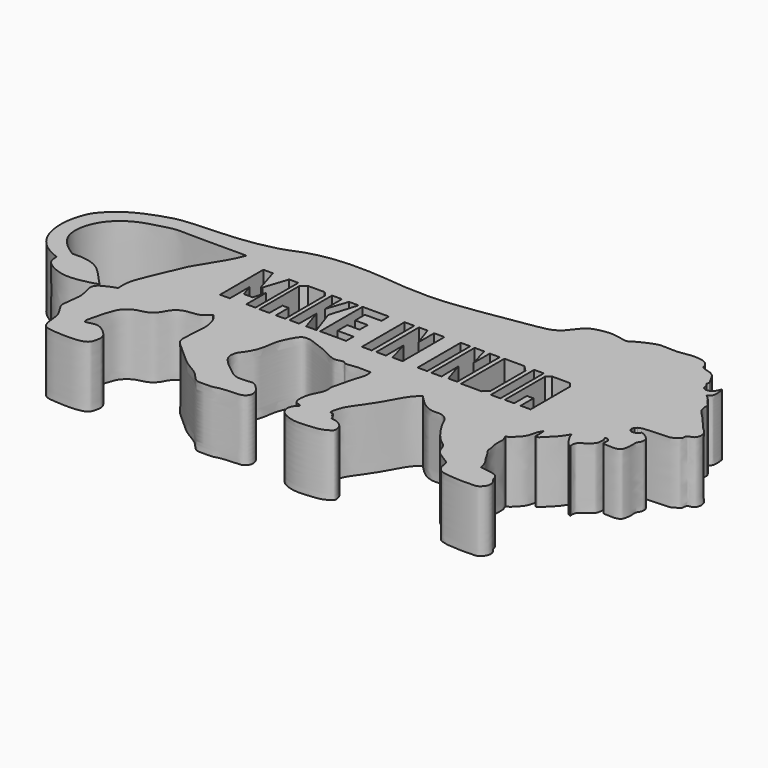
from build123d import *

# Parameters (mm, degrees)
F0_W     = 3.901142627
F0_H     = 21.9128001481
F0_W_2   = 3.9784259861
F0_H_2   = 21.7068511993
F0_W_3   = 3.9086304605
F0_H_3   = 22.0558345318
F1_DEPTH = 25


with BuildPart() as f1:
    # F0 (on Top) → F1 (new body)
    with BuildSketch(Plane.XY):
        with BuildLine():
            add(Edge.make_bspline(
                [(-18.4736680239, 30.7120643556), (-15.5948675816, 30.5604762347), (-9.1864551882, 30.2230304088), (4.1128363499, 31.1215565574), (23.632939243, 34.6049558686), (35.1111808796, 36.1484507051), (37.3155102603, 37.4282133385), (39.3079465554, 38.3340980459), (42.0384899067, 42.2735353081), (44.5267980784, 44.815673395), (46.6581846278, 45.7280435651), (51.6655403085, 46.9618585222), (56.1216359758, 46.3759270699), (59.9434017393, 45.202224889), (62.0695883688, 47.3156091824), (67.2613755102, 49.4382296788), (69.4831274543, 50.2730534783), (72.5410864337, 50.1151370516), (76.2483248841, 49.9200004564), (79.4998114568, 50.3763541503), (82.4187777902, 50.9438670851), (85.2888958304, 50.7735150926), (88.1014045119, 50.1774171062), (89.8262994525, 48.2317125603), (89.7153119698, 46.7224444774), (92.1400352556, 45.7788421357), (93.9768544457, 45.4930497994), (96.0762741335, 44.0393332843), (97.4479888711, 41.0161998282), (98.4806142716, 39.399975342), (97.5096783634, 38.7205557879), (98.8907263641, 37.8126613625), (98.763159314, 36.8785537181), (98.7862466379, 36.0609148144), (100.0111504239, 34.9520027023), (102.2513558334, 35.4083950251), (103.578790964, 36.9810849846), (104.2901819481, 39.2433456793), (104.6840907072, 36.6030298518), (104.6878166623, 34.0289695079), (104.0356998167, 33.023207468), (103.3382891327, 32.5287715955), (102.9767543077, 32.2724580765)],
                knots=[0, 0, 0, 0, 0.0427483381, 0.0951608093, 0.1605408416, 0.2080050187, 0.2290892437, 0.2493853251, 0.2807235087, 0.3075556361, 0.3289864572, 0.3609506803, 0.3921113389, 0.4189434683, 0.4428932232, 0.4765278413, 0.4988115548, 0.5231824348, 0.5509728381, 0.5769466531, 0.601440932, 0.6256485108, 0.6498383322, 0.6717603524, 0.6878935251, 0.7094977491, 0.7294334488, 0.7515792306, 0.7781734411, 0.796494484, 0.8083456448, 0.8244616377, 0.8378776964, 0.8503209404, 0.8673569935, 0.8878816422, 0.9092500341, 0.9262348925, 0.9448864175, 0.9689117963, 0.9838840033, 1, 1, 1, 1], degree=3))
            add(Edge.make_bspline(
                [(-117.8372651339, -22.1596620977), (-118.3892018021, -21.9762419282), (-119.9190424888, -21.467843675), (-125.7202892069, -18.3420555805), (-129.4536255711, -12.5760705844), (-130.6747630822, -7.7104194527), (-131.118282702, -1.8913666643), (-129.7249709406, 3.8422901543), (-128.0845262628, 8.3947996336), (-123.0968938245, 13.519526336), (-117.2438791732, 17.5503552621), (-106.9450969409, 21.4597197012), (-99.9823636341, 22.8474061474), (-79.9179276314, 23.0700663586), (-64.3644768732, 26.4823163548), (-59.5417892059, 29.1287225984), (-50.5429678117, 31.525076033), (-36.937989276, 32.5516830059), (-24.9436649391, 31.3566765691), (-18.4736680239, 30.7120643556)],
                knots=[0, 0, 0, 0, 0.0292788547, 0.0811542079, 0.1347774903, 0.1803325334, 0.2294459335, 0.2788190383, 0.3236022017, 0.3768894426, 0.4327248095, 0.4989220656, 0.5543536267, 0.64644381, 0.7281027153, 0.7748911633, 0.8351554252, 0.9110792855, 1, 1, 1, 1], degree=3))
            add(Edge.make_bspline(
                [(-95.509454608, -28.3433888108), (-96.3705319114, -28.6738207116), (-98.5321031404, -29.5033073178), (-105.8181365103, -30.8318431391), (-111.2763368319, -30.0205897368), (-117.7731926127, -26.6547235422), (-117.8176803145, -23.5336515206), (-117.8372651339, -22.1596620977)],
                knots=[0, 0, 0, 0, 0.1549727516, 0.3890296956, 0.6014233391, 0.824534611, 1, 1, 1, 1], degree=3))
            add(Edge.make_bspline(
                [(-115.2641773224, -17.3869878054), (-113.9308100204, -17.3143145205), (-110.9336995385, -17.1509612842), (-104.2643884338, -18.6498109494), (-99.1113432686, -24.4322758947), (-96.6343781518, -27.1218899205), (-95.509454608, -28.3433888108)],
                knots=[0, 0, 0, 0, 0.2123749431, 0.4773712143, 0.7626460616, 1, 1, 1, 1], degree=3))
            add(Edge.make_bspline(
                [(-71.2725818157, 16.146235168), (-73.8805224268, 16.1567574621), (-79.7033343526, 16.1802508421), (-92.5261512102, 15.9900609057), (-99.9751502548, 16.5608218702), (-106.2422599695, 14.6469975572), (-114.3817964715, 12.5754925374), (-123.3128471024, 5.2802766723), (-125.9333207694, -7.3176787157), (-120.0349581585, -14.3708868517), (-116.7398993674, -16.4540322117), (-115.2641773224, -17.3869878054)],
                knots=[0, 0, 0, 0, 0.1093183229, 0.2440776571, 0.3467643742, 0.4404749242, 0.548512706, 0.6740303276, 0.8027468167, 0.911658368, 1, 1, 1, 1], degree=3))
            add(Edge.make_bspline(
                [(-89.1831144691, -26.6888067126), (-89.2835275373, -25.2454863093), (-89.5076833201, -22.0235091248), (-87.3157397292, -15.8543709019), (-82.6577731783, -5.2743284444), (-80.6388678432, -0.1264043837), (-73.6889492734, 10.1743669909), (-71.9920420762, 14.3681439175), (-71.2725818157, 16.146235168)],
                knots=[0, 0, 0, 0, 0.1270240549, 0.2835604665, 0.486718783, 0.6360897634, 0.8457081483, 1, 1, 1, 1], degree=3))
            add(Edge.make_bspline(
                [(-82.8164070845, -51.5348315239), (-81.9452891289, -51.3079063484), (-80.2660386786, -50.870463634), (-77.8522828746, -50.5712042214), (-74.7625338245, -52.5153313836), (-71.6623036868, -55.7235393263), (-72.2359717931, -58.8964721691), (-73.2456962707, -63.3428908589), (-86.2080432671, -62.867825215), (-91.8126649517, -62.0682295112), (-92.2363067379, -55.427941643), (-92.7542532854, -52.3359294874), (-95.2947717698, -48.6228784357), (-96.4294413334, -46.6767639584), (-95.016915137, -39.6081692223), (-95.2600261579, -36.6429712964), (-96.7762321435, -32.1466514336), (-95.742289548, -29.0989090723), (-91.6803925067, -27.6064062002), (-89.1831144691, -26.6888067126)],
                knots=[0, 0, 0, 0, 0.0464123911, 0.0894689728, 0.1435392854, 0.2021561464, 0.2513278383, 0.3047498268, 0.4042247569, 0.4694606028, 0.5368782373, 0.5899317517, 0.6480609337, 0.6914938926, 0.7657430353, 0.818131859, 0.8780319599, 0.9250133362, 1, 1, 1, 1], degree=3))
            add(Edge.make_bspline(
                [(-54.0924370289, -22.2679730505), (-54.5641103002, -22.7140432871), (-55.5219598837, -23.6198995928), (-57.1098259406, -25.3174569603), (-62.3594248249, -25.4691900024), (-65.1318505949, -26.7073644681), (-67.21598576, -28.8688135267), (-68.3023215618, -31.7191705173), (-71.5435467926, -34.4015717751), (-75.5467108193, -34.6237535047), (-79.5549558425, -37.5146672153), (-80.758417518, -40.5888462117), (-81.7813687195, -43.3721796547), (-82.5894749465, -47.6544377667), (-83.549340859, -50.4964918343), (-83.1260744111, -51.1274574478), (-82.8164070845, -51.5348315239)],
                knots=[0, 0, 0, 0, 0.0558863943, 0.1155999533, 0.2062859179, 0.2772797097, 0.3446861447, 0.4149014075, 0.4945594154, 0.5752279977, 0.6623946086, 0.7343116835, 0.8037698157, 0.8894585473, 0.9564751556, 1, 1, 1, 1], degree=3))
            add(Edge.make_bspline(
                [(9.7058629617, -21.8705777079), (7.6072198532, -21.7533543804), (3.826811667, -21.5421931663), (-0.6203705234, -22.6999469235), (-1.4043499798, -20.981823046), (-5.0907400152, -22.7416603478), (-8.3100014943, -20.3978423509), (-18.0876729988, -16.5039212135), (-20.4790644999, -16.1537566805), (-22.6611320208, -16.402887046), (-24.074399778, -18.4552559966), (-25.3754922334, -20.8245287014), (-26.6345763333, -23.7771084807), (-27.0889936481, -26.219866796), (-27.7699721174, -30.8839707802), (-28.8943528968, -33.3147597286), (-30.2221100195, -35.7975264193), (-31.7307201461, -37.5125676259), (-32.2371387042, -38.9527628026), (-32.7566762426, -42.0309478502), (-29.1193163777, -45.9275420206), (-24.4659880838, -49.5948792361), (-21.6182730219, -51.3863697894), (-17.1729346465, -51.1326627348), (-14.5019476033, -50.5360974531), (-12.2436179557, -52.9587796936), (-10.9301618831, -54.1492317626), (-9.7525593757, -57.6983112664), (-12.0946450016, -59.6947349977), (-13.6519380184, -59.9373645666), (-20.9524318884, -60.1405727967), (-23.1739472061, -61.26523163), (-26.7180326963, -61.0776871534), (-30.0797114577, -61.3645561603), (-32.1889382774, -58.7158301677), (-34.2701752225, -56.4470396929), (-40.0036674162, -53.4713061797), (-43.8127950673, -49.7002054342), (-49.0175085398, -45.2397946851), (-51.371749501, -43.0722374322), (-51.5648326564, -38.5514465738), (-50.4876275079, -31.7250897509), (-51.1615335854, -27.4849900146), (-52.1793328259, -24.0893454702), (-53.4844226546, -22.8468336323), (-54.0924370289, -22.2679730505)],
                knots=[0, 0, 0, 0, 0.0308634602, 0.0555961503, 0.0692137009, 0.0911922921, 0.1163550106, 0.1562736417, 0.175837798, 0.1927230973, 0.2115950789, 0.2323217433, 0.2540531203, 0.2739970658, 0.3005099653, 0.3211209789, 0.3417112881, 0.3600974727, 0.3751622243, 0.3955334313, 0.4236524232, 0.4540255134, 0.4765158337, 0.5019870049, 0.5219827498, 0.5430943448, 0.5602583033, 0.582620513, 0.6022522964, 0.6184849522, 0.6512637802, 0.6715537219, 0.6942078858, 0.7163989226, 0.7378291135, 0.7597428687, 0.7905001121, 0.8202137615, 0.8522481259, 0.8735778571, 0.8989564037, 0.9317445131, 0.9575929358, 0.9802434254, 1, 1, 1, 1], degree=3))
            add(Edge.make_bspline(
                [(16.8600510806, -51.5348315239), (17.256519637, -51.4759425682), (18.1392450906, -51.2195965597), (18.4416358966, -52.8359859943), (19.5821339977, -53.3613971318), (19.5200066489, -54.6940290984), (21.5235011157, -54.5417635237), (23.4556472042, -55.4248385096), (24.9302829803, -56.8130410256), (25.2744823066, -57.5654328107), (26.1658753112, -60.3201144213), (23.9853877903, -61.3595372376), (21.9198477166, -62.6144305983), (16.7284022536, -63.0508150572), (12.3549106814, -63.4218081), (7.8860254464, -62.3744687577), (4.6246164401, -60.1176763525), (4.1326215753, -56.8041440554), (5.5151841874, -54.6855194601), (6.3518828164, -54.2791685873), (6.4263388495, -53.5347639616), (5.0981897969, -53.1717747985), (3.8692640639, -52.6580980535), (3.246864817, -50.6824389123), (3.7228726573, -46.9473613867), (4.8001846608, -44.4496542363), (6.8427498208, -40.8413355006), (6.1109814592, -37.7713579897), (7.0717566506, -35.1770120385), (7.3706629987, -32.5547354686), (9.1725278932, -26.7579099349), (9.9635548815, -24.4198827578), (9.7906310166, -22.7091745514), (9.7058629617, -21.8705777079)],
                knots=[0, 0, 0, 0, 0.0221136394, 0.046534576, 0.0694337637, 0.0900430737, 0.1172348151, 0.1492559042, 0.1783918573, 0.1986212443, 0.2317847799, 0.2616988912, 0.2949913125, 0.3428802425, 0.3883493378, 0.4334221711, 0.4744728341, 0.511546756, 0.5442024139, 0.5636935278, 0.5785543818, 0.6021656795, 0.6262315744, 0.6553524331, 0.6961750199, 0.7322660532, 0.7743998522, 0.8114456634, 0.8453290581, 0.8807697157, 0.9328342013, 0.9668258567, 1, 1, 1, 1], degree=3))
            add(Edge.make_bspline(
                [(32.8086540103, -24.3030339479), (31.9375314702, -25.0331508623), (29.9993856113, -26.6571255514), (26.904917097, -32.0356189985), (24.7091764513, -36.4043823533), (20.2403884148, -42.7559612884), (17.7765293616, -46.2355668818), (16.6431053109, -50.4764632188), (16.8051090196, -51.1455322217), (16.8600510806, -51.5348315239)],
                knots=[0, 0, 0, 0, 0.1304598029, 0.2984470574, 0.4556767809, 0.6443996772, 0.7926103601, 0.9293422073, 1, 1, 1, 1], degree=3))
            add(Edge.make_bspline(
                [(77.9110491276, -51.0376356542), (79.2116973866, -51.1903257383), (81.7237315833, -51.4852269233), (85.4995300302, -52.3111595104), (85.9398941157, -55.4289674935), (87.464241625, -56.6534831609), (87.7819184791, -59.4574670396), (85.5592114912, -61.851068358), (83.5421766219, -62.2641958441), (70.8304844897, -62.2545023774), (68.301671972, -59.8086513108), (67.56993996, -57.7700529112), (67.502704011, -55.2249464746), (65.3448136123, -54.1559608999), (63.4830706959, -52.7601320899), (61.7338238321, -51.8983459164), (60.1300199693, -49.7692845309), (59.5767139931, -46.7612989779), (56.3633315598, -44.9004846392), (52.243370715, -39.9259168604), (49.2952471487, -34.9048145371), (48.4651021989, -32.3270393343), (45.5371631955, -30.0085934633), (42.2440474868, -30.7199930132), (37.8295082775, -29.4556088161), (34.0943938599, -25.6271020133), (33.1529770398, -24.6576213302), (32.8086540103, -24.3030339479)],
                knots=[0, 0, 0, 0, 0.0439324742, 0.0848499023, 0.1209783242, 0.1509997244, 0.18595777, 0.2230571154, 0.2559985253, 0.3334992994, 0.3733829141, 0.4046220896, 0.4381061782, 0.4708877542, 0.5046140963, 0.5351214224, 0.570295901, 0.6073957556, 0.6483789622, 0.7051280439, 0.7582243102, 0.7942254438, 0.8339744281, 0.8732556228, 0.9202455515, 0.9708298251, 1, 1, 1, 1], degree=3))
            add(Edge.make_bspline(
                [(70.6071034074, -29.6164434403), (71.0155114938, -30.443085248), (71.8770425203, -32.1868743376), (71.0893154654, -35.4734683076), (72.4026219994, -38.9486939391), (71.925305016, -40.333056852), (73.7331978051, -42.4214221008), (74.8569054721, -44.9678383965), (76.5529478246, -46.9873272268), (77.4912337434, -49.2729961327), (77.7784313975, -50.4801942252), (77.9110491276, -51.0376356542)],
                knots=[0, 0, 0, 0, 0.115506881, 0.243660116, 0.3749583547, 0.4542265425, 0.5649583271, 0.6839877578, 0.797391713, 0.9064426512, 1, 1, 1, 1], degree=3))
            add(Edge.make_bspline(
                [(77.9110491276, -18.8456755131), (77.4530359988, -19.656977218), (76.5044332348, -21.3372850327), (76.0165545636, -24.6064537003), (74.5084839102, -26.6011430273), (73.2536071688, -27.7507984202), (72.1249827855, -29.1173948345), (71.1057651335, -29.4524933645), (70.6071034074, -29.6164434403)],
                knots=[0, 0, 0, 0, 0.1894197894, 0.3923121946, 0.566867362, 0.7132976415, 0.8597282016, 1, 1, 1, 1], degree=3))
            add(Edge.make_bspline(
                [(78.7835121155, -23.7314607948), (78.5386138993, -23.7981556295), (77.8716163467, -23.9798037126), (78.0940369223, -21.6274727605), (77.9767490613, -19.8444519348), (77.9110491276, -18.8456755131)],
                knots=[0, 0, 0, 0, 0.2033087284, 0.5537256514, 1, 1, 1, 1], degree=3))
            add(Edge.make_bspline(
                [(86.1813426018, -15.3871998191), (85.882248043, -15.887743296), (85.2201549051, -16.995775494), (83.5888828282, -19.2671293298), (81.6548854404, -20.9836865671), (79.6533438556, -23.2403664174), (79.0137654951, -23.6014630781), (78.7835121155, -23.7314607948)],
                knots=[0, 0, 0, 0, 0.1849971674, 0.4095205061, 0.6360303571, 0.8689679865, 1, 1, 1, 1], degree=3))
            add(Edge.make_bspline(
                [(86.1813426018, -15.3871998191), (86.3531665209, -15.9192523578), (86.7470500721, -17.1389122542), (88.3267981688, -19.6054603094), (89.7084249285, -21.5140718667), (90.5442100111, -21.7666841735), (90.8879488707, -21.8705777079)],
                knots=[0, 0, 0, 0, 0.2369872054, 0.5432617444, 0.8121542364, 1, 1, 1, 1], degree=3))
            add(Edge.make_bspline(
                [(97.9296118021, -13.8683263212), (97.9094180472, -13.3189629983), (97.8748499811, -12.3785520757), (98.0980231896, -11.5611221157), (97.0937587464, -10.4906025755), (95.5380792257, -10.3883678933), (96.6094769474, -11.5815423829), (96.4917067457, -13.970139237), (95.8520966656, -15.7616812219), (92.7188634684, -17.9654059008), (91.1224666606, -18.9456527361), (90.6629196135, -20.6126449996), (90.8154185378, -21.4651269716), (90.8879488707, -21.8705777079)],
                knots=[0, 0, 0, 0, 0.0884064371, 0.1513358748, 0.2362572561, 0.3082820821, 0.3808136988, 0.491454011, 0.5913430919, 0.7302365732, 0.8294765741, 0.9188969963, 1, 1, 1, 1], degree=3))
            add(Edge.make_bspline(
                [(102.7900353074, -0.448750623), (103.2332544086, -0.5914563002), (104.2366144852, -0.9145133932), (106.248562924, -2.4073585195), (106.9107529065, -3.7650242294), (106.6900604955, -5.7069581835), (105.6429960595, -6.7895758661), (105.6977810855, -8.0946782298), (105.8268728182, -9.734188314), (105.4881412995, -12.8749622212), (104.2310844027, -13.9826346501), (102.2528823429, -14.3605426754), (99.7450578209, -14.0959816098), (98.2686483109, -14.2176575398), (97.9296118021, -13.8683263212)],
                knots=[0, 0, 0, 0, 0.0757706346, 0.1716441474, 0.2464644092, 0.3294237054, 0.4029012544, 0.4692782641, 0.5501548556, 0.6576862524, 0.7334919824, 0.8186646469, 0.9191217872, 1, 1, 1, 1], degree=3))
            Line((102.7900353074, -0.448750623), (102.6172935963, -1.0656741215))
            Line((102.6172935963, -1.0656741215), (102.1237596869, -1.435828628))
            Line((102.1237596869, -1.435828628), (100.9145826101, -2.0527523011))
            Line((100.9145826101, -2.0527523011), (99.8288020492, -2.0527523011))
            Line((99.8288020492, -2.0527523011), (98.9897847176, -1.460505533))
            Line((98.9897847176, -1.460505533), (98.6196324229, -0.473427528))
            Line((98.6196324229, -0.473427528), (98.9897847176, 0.6123581552))
            Line((98.9897847176, 0.6123581552), (99.7300893068, 1.3279895065))
            add(Edge.make_bspline(
                [(107.3788180947, 27.3124203086), (107.4592939835, 27.1327487678), (107.6447487533, 26.7186999797), (107.3858845509, 25.6480541353), (107.86323252, 24.5544680607), (107.8892834025, 23.4088294355), (108.7345320771, 22.3847633693), (109.7279228273, 21.2981743635), (110.8909862708, 20.1990697582), (112.1549732959, 18.7304705086), (114.7839975738, 15.4594590761), (116.738891165, 13.4625610636), (118.8310219945, 11.6805699683), (119.0081251152, 8.3975630583), (117.3312213971, 6.8319151261), (115.197911961, 6.8817607703), (115.4209938354, 4.4997489188), (114.3739075512, 3.9762510529), (112.8953233416, 2.9336001831), (111.6785906966, 2.3705364197), (107.6277299621, 2.4774200021), (104.3269832527, 2.099812144), (101.3978757868, 2.044956064), (100.2399569256, 1.5471770559), (99.7300893068, 1.3279895065)],
                knots=[0, 0, 0, 0, 0.0256822701, 0.05918418, 0.0947925608, 0.1292050511, 0.1661735102, 0.2062639445, 0.2469192381, 0.2929378521, 0.3600062022, 0.4159955372, 0.4689036302, 0.5251087732, 0.5723446726, 0.6148537409, 0.65921727, 0.6933510656, 0.7365262885, 0.7745477593, 0.8393541577, 0.9014885559, 0.9566223531, 1, 1, 1, 1], degree=3))
            Line((107.3788180947, 27.3124203086), (107.011988759, 27.8553199023))
            Line((107.011988759, 27.8553199023), (106.6011488438, 28.3248573542))
            Line((106.6011488438, 28.3248573542), (106.1169356108, 28.8677588105))
            Line((106.1169356108, 28.8677588105), (105.6180521846, 29.4693503529))
            Line((105.6180521846, 29.4693503529), (105.3245961666, 29.9242138863))
            Line((105.3245961666, 29.9242138863), (104.8697307706, 30.5258072913))
            Line((104.8697307706, 30.5258072913), (104.2534634471, 31.2447845936))
            Line((104.2534634471, 31.2447845936), (102.9767543077, 32.2724580765))
        make_face()
        Polygon((-57.0624433458, 0), (-57.0616722107, -10.0893164054), (-61.0527284443, -10.0893164054), (-61.0527284443, 11.9201848283), (-57.179056108, 11.9201848283), (-54.1921071708, 2.2376170382), (-53.6162815988, 2.2376170382), (-50.465028733, 11.8046114221), (-46.7298924923, 11.8046114221), (-46.7298924923, -9.983683005), (-50.4235289991, -9.983683005), (-50.4235289991, 0), (-51.7818592489, -5.0191995688), (-55.4484128952, -5.0191995688), align=None, mode=Mode.SUBTRACT)
        Polygon((-40.8706218004, -3.5555115901), (-40.9991107881, -10.0893164054), (-45.1282374561, -10.0893164054), (-45.1282374561, 10.1944869384), (-43.0343262851, 12.0790051296), (-36.1942276359, 12.0790051296), (-34.5888957381, 10.1246908307), (-34.5888957381, -10.0893164054), (-38.3579321206, -10.0893164054), (-38.3579321206, -3.5555115901), align=None, mode=Mode.SUBTRACT)
        Polygon((-32.9193994403, -9.9487854168), (-32.9193994403, 11.6882678121), (-28.9060752839, 11.7231663316), (-28.9060752839, 3.1032434199), (-25.9746033698, 11.6533692926), (-22.1008732915, 11.6533692926), (-25.5209226161, 0.520756701), (-21.8914803118, -9.9836839363), (-26.1141974479, -9.9836839363), (-29.0107689798, -1.1543700239), (-29.0107689798, -9.9487854168), align=None, mode=Mode.SUBTRACT)
        Polygon((-9.936244227, -9.8832314834), (-20.5104816705, -9.8832314834), (-20.5104816705, 11.6882678121), (-9.7617525607, 11.6882678121), (-9.7617525607, 7.8800907359), (-16.4971575141, 7.8800907359), (-16.4971575141, 2.9245079495), (-11.401980184, 2.9245079495), (-11.401980184, -1.1586132459), (-16.4273604751, -1.1586132459), (-16.4273604751, -6.1141960323), (-9.936244227, -6.1141960323), align=None, mode=Mode.SUBTRACT)
        with Locations((21.2378241122, 0.9062550962)):
            Rectangle(F0_W, F0_H, mode=Mode.SUBTRACT)
        with Locations((-1.4777898905, 0.9168982506)):
            Rectangle(F0_W_2, F0_H_2, mode=Mode.SUBTRACT)
        Polygon((6.2571431786, -9.86673031), (2.3261436727, -9.86673031), (2.3261436727, 11.8401208892), (5.8159912005, 11.8401208892), (8.6078690365, 3.7436743733), (8.6078690365, 11.7005268112), (12.8180564657, 11.7005268112), (12.8180564657, -9.5875430852), (8.7000367508, -9.5875430852), (6.2571431786, -0.9327213047), align=None, mode=Mode.SUBTRACT)
        with Locations((51.0996822268, 0.8759833872)):
            Rectangle(F0_W_3, F0_H_3, mode=Mode.SUBTRACT)
        Polygon((28.8344603032, -1.2179252226), (29.0438514203, -10.082137771), (24.9258317053, -10.082137771), (24.9258317053, 11.9039006531), (28.8344603032, 11.9039006531), (31.137758866, 3.5980641842), (31.137758866, 11.8341045454), (35.1859815419, 11.8341045454), (35.1859815419, -9.8029496148), (31.5565392375, -9.8029496148), align=None, mode=Mode.SUBTRACT)
        Polygon((45.3065410256, -10.082137771), (37.0007045567, -10.082137771), (37.0007045567, 11.9736976922), (45.0971499085, 11.9736976922), (47.4004484713, 9.6703981981), (47.4004484713, -8.1278225407), align=None, mode=Mode.SUBTRACT)
        Polygon((56.3433580101, 11.8766343221), (63.7972429395, 11.8766343221), (65.2645453811, 9.9984901026), (65.2645453811, -10.0741749629), (61.2147934735, -10.0741749629), (61.2147934735, -3.5593626089), (58.5736557841, -3.5593626089), (58.5736557841, -10.0741749629), (54.7586753964, -10.0741749629), (54.7586753964, 10.4093337432), align=None, mode=Mode.SUBTRACT)
    extrude(amount=F1_DEPTH)


solid = f1.part
